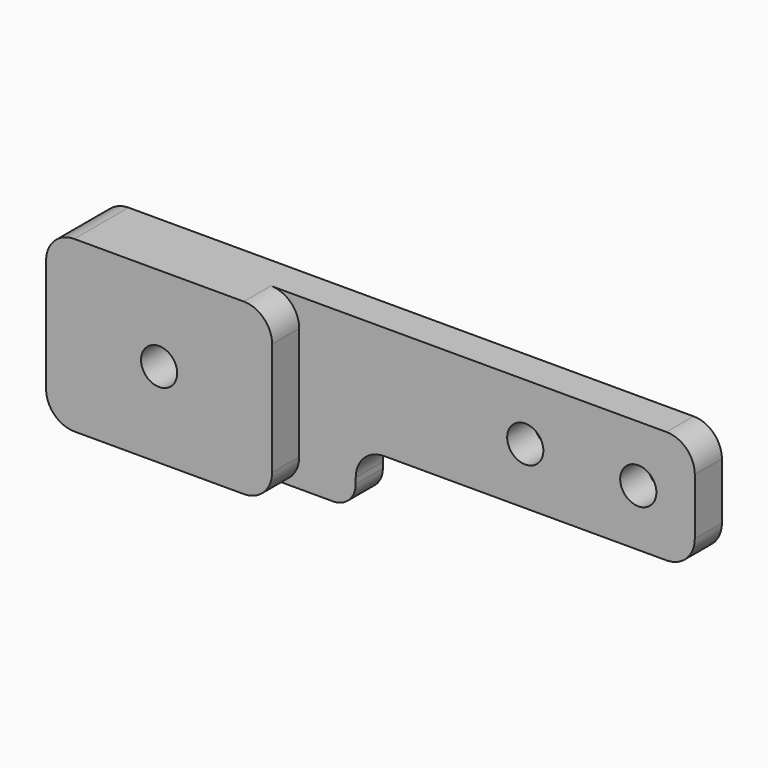
from build123d import *

# Parameters (mm, degrees)
F0_R     = 1.6
F1_DEPTH = 3
F2_R     = 1.6
F3_DEPTH = 3


with BuildPart() as f1:
    # F0 (on Front) → F1 (new body)
    with BuildSketch(Plane.XZ):
        with BuildLine():
            Line((-25, -7.5), (-4.5, -7.5))
            ThreePointArc((-4.5, -7.5), (-3.085786, -6.914214), (-2.5, -5.5))
            Line((-2.5, -5.5), (-2.5, -5))
            ThreePointArc((-2.5, -5), (-1.767767, -3.232233), (0, -2.5))
            Line((0, -2.5), (25, -2.5))
            ThreePointArc((25, -2.5), (26.767767, -1.767767), (27.5, 0))
            Line((27.5, 0), (27.5, 5))
            ThreePointArc((27.5, 5), (26.767767, 6.767767), (25, 7.5))
            Line((25, 7.5), (-25, 7.5))
            ThreePointArc((-25, 7.5), (-26.767767, 6.767767), (-27.5, 5))
            Line((-27.5, 5), (-27.5, -5))
            ThreePointArc((-27.5, -5), (-26.767767, -6.767767), (-25, -7.5))
        make_face()
        with Locations((-17.5, 0)):
            Circle(F0_R, mode=Mode.SUBTRACT)
        with Locations((12.5, 2.5)):
            Circle(F0_R, mode=Mode.SUBTRACT)
        with Locations((22.5, 2.5)):
            Circle(F0_R, mode=Mode.SUBTRACT)
    extrude(amount=F1_DEPTH)

    # F2 (on face) → F3 (join)
    with BuildSketch(Plane.XZ.offset(3)):
        with BuildLine():
            Line((-25, -7.5), (-10, -7.5))
            ThreePointArc((-10, -7.5), (-8.232233, -6.767767), (-7.5, -5))
            Line((-7.5, -5), (-7.5, 5))
            ThreePointArc((-7.5, 5), (-8.232233, 6.767767), (-10, 7.5))
            Line((-10, 7.5), (-25, 7.5))
            ThreePointArc((-25, 7.5), (-26.767767, 6.767767), (-27.5, 5))
            Line((-27.5, 5), (-27.5, -5))
            ThreePointArc((-27.5, -5), (-26.767767, -6.767767), (-25, -7.5))
        make_face()
        with Locations((-17.5, 0)):
            Circle(F2_R, mode=Mode.SUBTRACT)
    extrude(amount=F3_DEPTH)


solid = f1.part
